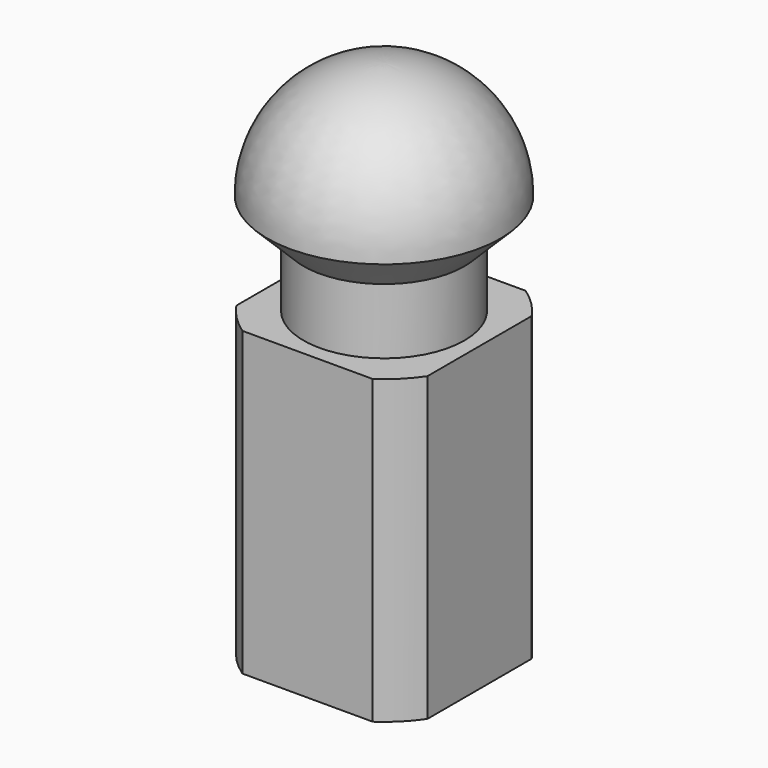
from build123d import *

# Parameters (mm, degrees)
F3_DEPTH = 30


with BuildPart() as f1:
    # F0 (on Front) → F1 (revolve)
    with BuildSketch(Plane.XZ):
        with BuildLine():
            Line((11.5, 0), (8, 0))
            Line((8, 0), (8, 6.5))
            Line((8, 6.5), (11.6, 10.1))
            ThreePointArc((11.6, 10.1), (8.202439, 18.302439), (0, 21.7))
            Line((0, 21.7), (0, 0))
            Line((0, 0), (0, -30))
            Line((0, -30), (11.5, -30))
            Line((11.5, -30), (11.5, 0))
        make_face()
    revolve(axis=Axis((0, 0, 10.85), (0, 0, 1)))

    # F2 (on face) → F3 (cut)
    with BuildSketch(Plane(origin=(0, 0, -30), x_dir=(1, 0, 0), z_dir=(0, 0, -1))):
        with BuildLine():
            Line((-6.480741, 9.5), (6.480741, 9.5))
            ThreePointArc((6.480741, 9.5), (0, 11.5), (-6.480741, 9.5))
        make_face()
        with BuildLine():
            Line((9.5, 6.480741), (9.5, 0))
            Line((9.5, 0), (9.5, -6.480741))
            ThreePointArc((9.5, -6.480741), (10.98863, -3.391165), (11.5, 0))
            ThreePointArc((11.5, 0), (10.98863, 3.391165), (9.5, 6.480741))
        make_face()
        with BuildLine():
            Line((-9.5, -6.480741), (-9.5, 6.480741))
            ThreePointArc((-9.5, 6.480741), (-11.5, 0), (-9.5, -6.480741))
        make_face()
        with BuildLine():
            ThreePointArc((-6.480741, -9.5), (0, -11.5), (6.480741, -9.5))
            Line((6.480741, -9.5), (-6.480741, -9.5))
        make_face()
    extrude(amount=-F3_DEPTH, mode=Mode.SUBTRACT)


solid = f1.part
